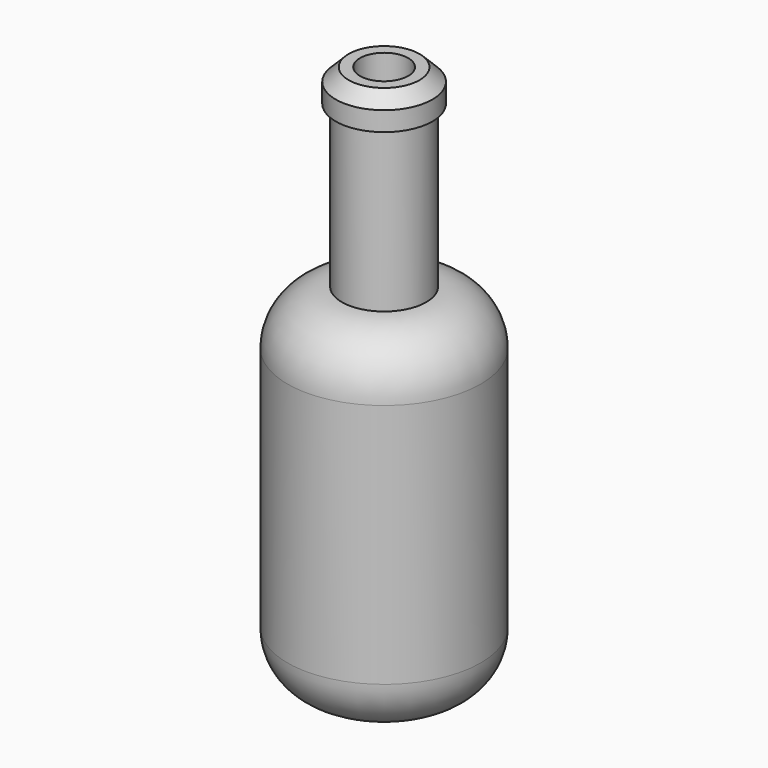
from build123d import *

# Parameters (mm, degrees)
F0_R      = 7.62
F1_DEPTH  = 27.94
F2_R      = 4.292472
F3_R      = 4.292472
F1_FACE_R = 3.327528
F4_DEPTH  = 12.7
F5_R      = 3.81
F6_DEPTH  = 2.54
F7_SIZE   = 1.016
F8_R      = 1.905
F9_DEPTH  = 43.18


with BuildPart() as f1:
    # F0 (on Top) → F1 (new body)
    with BuildSketch(Plane.XY):
        Circle(F0_R)
    extrude(amount=F1_DEPTH)

    # F2
    f2_edges = [f1.edges().sort_by_distance(p)[0] for p in [
        (-7.62, 0, 0),
    ]]
    fillet(f2_edges, radius=F2_R)

    # F3
    f3_edges = [f1.edges().sort_by_distance(p)[0] for p in [
        (-7.62, 0, 27.94),
    ]]
    fillet(f3_edges, radius=F3_R)

    # F1_face (on face) → F4 (join)
    with BuildSketch(Plane.XY.offset(27.94)):
        Circle(F1_FACE_R)
    extrude(amount=F4_DEPTH)

    # F5 (on face) → F6 (join)
    with BuildSketch(Plane.XY.offset(40.64)):
        Circle(F5_R)
    extrude(amount=F6_DEPTH)

    # F7
    f7_edges = [f1.edges().sort_by_distance(p)[0] for p in [
        (-3.81, 0, 43.18),
    ]]
    chamfer(f7_edges, length=F7_SIZE)

    # F8 (on face) → F9 (cut)
    with BuildSketch(Plane.XY.offset(43.18)):
        Circle(F8_R)
    extrude(amount=-F9_DEPTH, mode=Mode.SUBTRACT)


solid = f1.part
